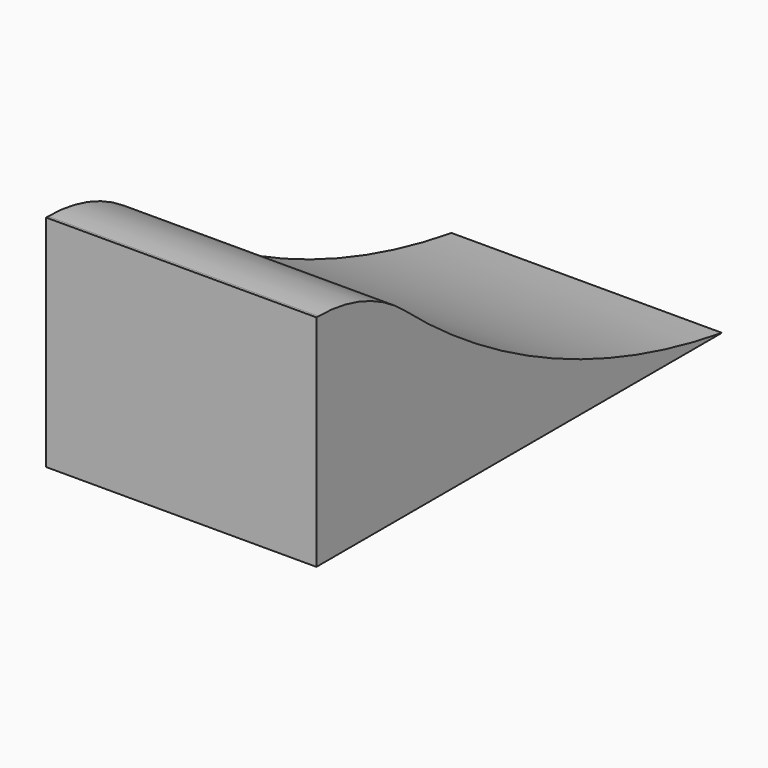
from build123d import *

# Parameters (mm, degrees)
F1_DEPTH = 80
F2_R     = 50


with BuildPart() as f1:
    # F0 (on Right) → F1 (new body)
    with BuildSketch(Plane.YZ):
        with BuildLine():
            Line((-74.795328, 65), (-74.795328, 0))
            Line((-74.795328, 0), (75.204672, 0))
            ThreePointArc((75.204672, 0), (5.135674, 22.362004), (-54.795328, 65))
            Line((-54.795328, 65), (-74.795328, 65))
        make_face()
    extrude(amount=F1_DEPTH)

    # F2
    f2_edges = [f1.edges().sort_by_distance(p)[0] for p in [
        (40, -54.795328, 65),
    ]]
    fillet(f2_edges, radius=F2_R)


solid = f1.part
